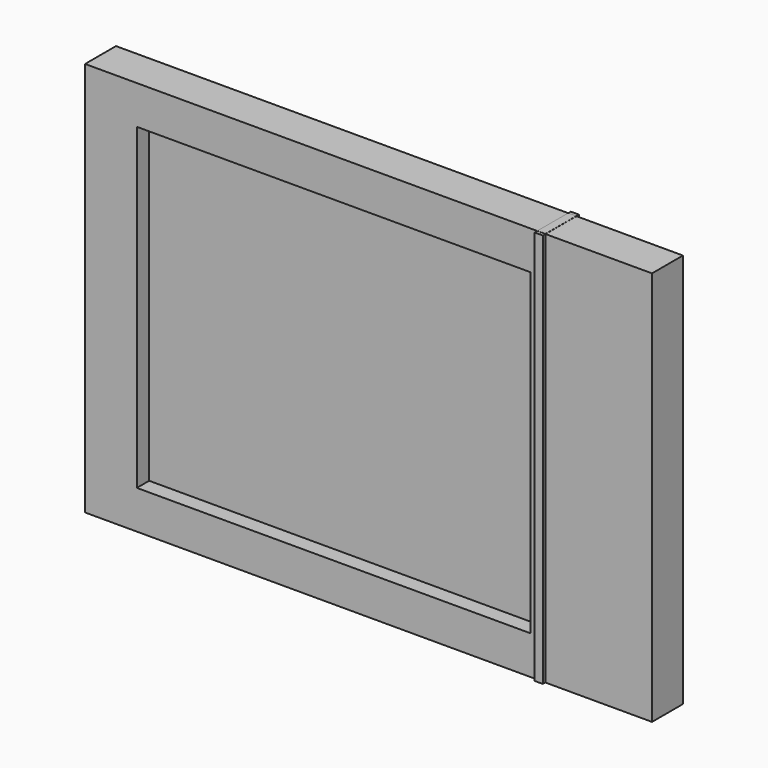
from build123d import *

# Parameters (mm, degrees)
F0_W     = 120.2
F0_H     = 97
F0_W_2   = 2.5
F0_H_2   = 0.03408
F1_DEPTH = 5.9
F0_H_3   = 120.46592
F2_DEPTH = 6.9
F3_DEPTH = 1.2


with BuildPart() as f1:
    # F0 (on Front) → F1 (new body)
    with BuildSketch(Plane.XZ):
        Polygon((51.5, 60.25), (-86.5, 60.25), (-86.5, -60.25), (86.5, -60.25), (86.5, 60.25), (54, 60.25), (54, -60.21592), (51.5, -60.21592), align=None)
        with Locations((-10.6, 0)):
            Rectangle(F0_W, F0_H, mode=Mode.SUBTRACT)
        with Locations((52.75, 60.26704)):
            Rectangle(F0_W_2, F0_H_2)
    extrude(amount=F1_DEPTH)

    # F0 (on Front) → F2 (join)
    with BuildSketch(Plane.XZ):
        with Locations((52.75, 0.01704)):
            Rectangle(F0_W_2, F0_H_3)
    extrude(amount=F2_DEPTH)

    # F0 (on Front) → F3 (join)
    with BuildSketch(Plane.XZ):
        with Locations((-10.6, 0)):
            Rectangle(F0_W, F0_H)
    extrude(amount=F3_DEPTH)

    # F4: F1 across face


with BuildPart() as f1_1:
    add(f1.part)
    add(f1.part.mirror(Plane(origin=(0.000216, 0, 0.000246), x_dir=(1, 0, 0), z_dir=(0, 1, 0))))


solid = f1_1.part
